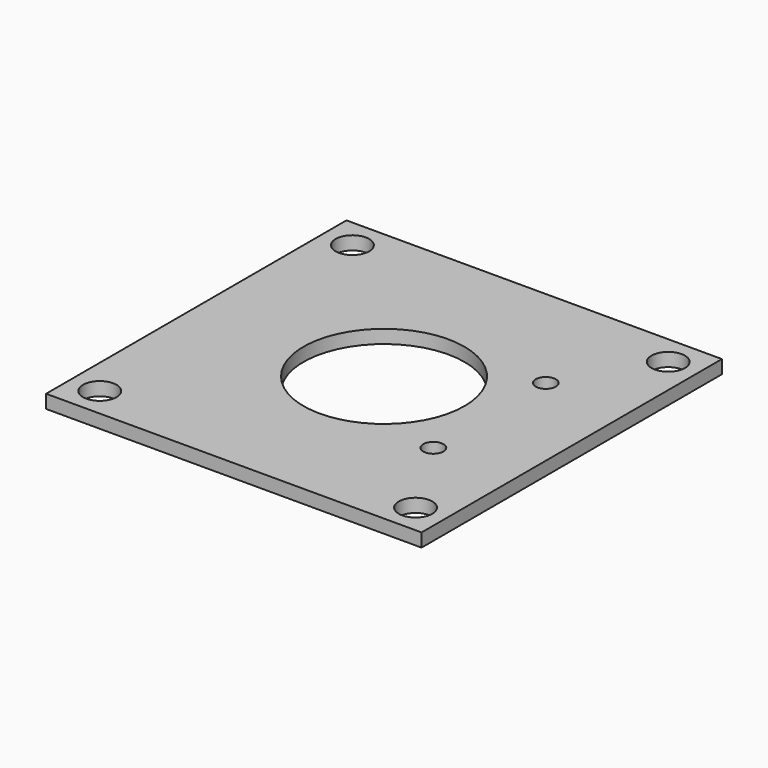
from build123d import *

# Parameters (mm, degrees)
BOX303_W                    = 56
BOX303_H                    = 56
BOX303_DEPTH                = 2
CYLINDER744_R               = 1.5
CYLINDER744_DEPTH           = 20
CYLINDER748_R               = 1.5
CYLINDER748_DEPTH           = 20
COMPOUND443_PLACEMENT_ANGLE = 90
BOX301_W                    = 20
BOX301_H                    = 8
BOX301_DEPTH                = 3
BOX302_W                    = 20
BOX302_H                    = 8
BOX302_DEPTH                = 3
BOX305_W                    = 20
BOX305_H                    = 8
BOX305_DEPTH                = 3
BOX304_W                    = 20
BOX304_H                    = 8
BOX304_DEPTH                = 3
CYLINDER743_R               = 12
CYLINDER743_DEPTH           = 20
CYLINDER736_R               = 5
CYLINDER736_DEPTH           = 4
CYLINDER737_R               = 5
CYLINDER737_DEPTH           = 4
CYLINDER747_R               = 5
CYLINDER747_DEPTH           = 4
CYLINDER749_R               = 5
CYLINDER749_DEPTH           = 4
CYLINDER746_R               = 2.5
CYLINDER746_DEPTH           = 20
CYLINDER750_R               = 2.5
CYLINDER750_DEPTH           = 20
CYLINDER745_R               = 2.5
CYLINDER745_DEPTH           = 20
CYLINDER738_R               = 2.5
CYLINDER738_DEPTH           = 20
CYLINDER751_R               = 3
CYLINDER751_DEPTH           = 5
CYLINDER751_PLACEMENT_ANGLE = 22.5
CYLINDER739_R               = 3
CYLINDER739_DEPTH           = 5
CYLINDER739_PLACEMENT_ANGLE = 67.5
CYLINDER742_R               = 3
CYLINDER742_DEPTH           = 5
CYLINDER742_PLACEMENT_ANGLE = 202.5
CYLINDER741_R               = 3
CYLINDER741_DEPTH           = 5
CYLINDER741_PLACEMENT_ANGLE = 112.5
COMPOUND442_PLACEMENT_ANGLE = 45
CYLINDER753_R               = 1.5
CYLINDER753_DEPTH           = 30
CYLINDER753_PLACEMENT_ANGLE = 22.5
CYLINDER752_R               = 1.5
CYLINDER752_DEPTH           = 30
CYLINDER752_PLACEMENT_ANGLE = 67.5
CYLINDER740_R               = 1.5
CYLINDER740_DEPTH           = 30
CYLINDER740_PLACEMENT_ANGLE = 202.5
CYLINDER754_R               = 1.5
CYLINDER754_DEPTH           = 30
CYLINDER754_PLACEMENT_ANGLE = 112.5
COMPOUND441_PLACEMENT_ANGLE = 45
BOX306_W                    = 68
BOX306_H                    = 64
BOX306_DEPTH                = 8


with BuildPart() as krychle303:
    # Box303 → Box303 (new body)
    with BuildSketch(Plane(origin=(-28, -28, -68), x_dir=(1, 0, 0), z_dir=(0, 0, 1))):
        with Locations((28, 28)):
            Rectangle(BOX303_W, BOX303_H)
    extrude(amount=BOX303_DEPTH)


with BuildPart() as obj1:
    # Cylinder744 → Cylinder744 (new body)
    with BuildSketch(Plane(origin=(15.75, 114, 59.48), x_dir=(-1, 0, 0), z_dir=(0, 1, 0))):
        Circle(CYLINDER744_R)
    extrude(amount=CYLINDER744_DEPTH)


with BuildPart() as compound443:
    # Cylinder748 → Cylinder748 (new body)
    with BuildSketch(Plane(origin=(15.75, 114, 38.52), x_dir=(-1, 0, 0), z_dir=(0, 1, 0))):
        Circle(CYLINDER748_R)
    extrude(amount=CYLINDER748_DEPTH)

    # Compound443: union obj1
    add(obj1.part)


with BuildPart() as compound443_1:
    # Compound443 placement: moved
    add(compound443.part.moved(Location((0, 49, -200))).rotate(Axis((0, 49, -200), (1, 0, 0)), COMPOUND443_PLACEMENT_ANGLE))


with BuildPart() as krychle301:
    # Box301 → Box301 (new body)
    with BuildSketch(Plane(origin=(17.55, -27.55, 31), x_dir=(1, 0, 0), z_dir=(0, 0, 1))):
        with Locations((10, 4)):
            Rectangle(BOX301_W, BOX301_H)
    extrude(amount=BOX301_DEPTH)


with BuildPart() as krychle302:
    # Box302 → Box302 (new body)
    with BuildSketch(Plane(origin=(-37.45, 19.55, 31), x_dir=(1, 0, 0), z_dir=(0, 0, 1))):
        with Locations((10, 4)):
            Rectangle(BOX302_W, BOX302_H)
    extrude(amount=BOX302_DEPTH)


with BuildPart() as krychle305:
    # Box305 → Box305 (new body)
    with BuildSketch(Plane(origin=(-37.45, -27.55, 31), x_dir=(1, 0, 0), z_dir=(0, 0, 1))):
        with Locations((10, 4)):
            Rectangle(BOX305_W, BOX305_H)
    extrude(amount=BOX305_DEPTH)


with BuildPart() as compound444:
    # Box304 → Box304 (new body)
    with BuildSketch(Plane(origin=(17.55, 19.55, 31), x_dir=(1, 0, 0), z_dir=(0, 0, 1))):
        with Locations((10, 4)):
            Rectangle(BOX304_W, BOX304_H)
    extrude(amount=BOX304_DEPTH)

    # Compound444: union Krychle301, Krychle302, Krychle305
    add(krychle301.part)
    add(krychle302.part)
    add(krychle305.part)


with BuildPart() as compound444_1:
    # Compound444 placement: moved
    add(compound444.part.moved(Location((0, 0, -4))))


with BuildPart() as obj2:
    # Cylinder743 → Cylinder743 (new body)
    with BuildSketch(Plane.XY.offset(15)):
        Circle(CYLINDER743_R)
    extrude(amount=CYLINDER743_DEPTH)


with BuildPart() as obj3:
    # Cylinder736 → Cylinder736 (new body)
    with BuildSketch(Plane(origin=(23.55, 23.55, 26), x_dir=(1, 0, 0), z_dir=(0, 0, 1))):
        Circle(CYLINDER736_R)
    extrude(amount=CYLINDER736_DEPTH)


with BuildPart() as obj4:
    # Cylinder737 → Cylinder737 (new body)
    with BuildSketch(Plane(origin=(23.55, -23.55, 26), x_dir=(1, 0, 0), z_dir=(0, 0, 1))):
        Circle(CYLINDER737_R)
    extrude(amount=CYLINDER737_DEPTH)


with BuildPart() as obj5:
    # Cylinder747 → Cylinder747 (new body)
    with BuildSketch(Plane(origin=(-23.55, 23.55, 26), x_dir=(1, 0, 0), z_dir=(0, 0, 1))):
        Circle(CYLINDER747_R)
    extrude(amount=CYLINDER747_DEPTH)


with BuildPart() as compound440:
    # Cylinder749 → Cylinder749 (new body)
    with BuildSketch(Plane(origin=(-23.55, -23.55, 26), x_dir=(1, 0, 0), z_dir=(0, 0, 1))):
        Circle(CYLINDER749_R)
    extrude(amount=CYLINDER749_DEPTH)

    # Compound440: union obj3, obj4, obj5
    add(obj3.part)
    add(obj4.part)
    add(obj5.part)


with BuildPart() as compound440_1:
    # Compound440 placement: moved
    add(compound440.part.moved(Location((0, 0, -50))))


with BuildPart() as obj6:
    # Cylinder746 → Cylinder746 (new body)
    with BuildSketch(Plane(origin=(-23.55, 23.55, 20), x_dir=(1, 0, 0), z_dir=(0, 0, 1))):
        Circle(CYLINDER746_R)
    extrude(amount=CYLINDER746_DEPTH)


with BuildPart() as obj7:
    # Cylinder750 → Cylinder750 (new body)
    with BuildSketch(Plane(origin=(-23.55, -23.55, 20), x_dir=(1, 0, 0), z_dir=(0, 0, 1))):
        Circle(CYLINDER750_R)
    extrude(amount=CYLINDER750_DEPTH)


with BuildPart() as obj8:
    # Cylinder745 → Cylinder745 (new body)
    with BuildSketch(Plane(origin=(23.55, -23.55, 20), x_dir=(1, 0, 0), z_dir=(0, 0, 1))):
        Circle(CYLINDER745_R)
    extrude(amount=CYLINDER745_DEPTH)


with BuildPart() as compound445:
    # Cylinder738 → Cylinder738 (new body)
    with BuildSketch(Plane(origin=(23.55, 23.55, 20), x_dir=(1, 0, 0), z_dir=(0, 0, 1))):
        Circle(CYLINDER738_R)
    extrude(amount=CYLINDER738_DEPTH)

    # Compound445: union obj6, obj7, obj8
    add(obj6.part)
    add(obj7.part)
    add(obj8.part)


with BuildPart() as obj9:
    # Cylinder751 → Cylinder751 (new body)
    with BuildSketch(Plane.XY):
        Circle(CYLINDER751_R)
    extrude(amount=CYLINDER751_DEPTH)


with BuildPart() as obj9_1:
    # Cylinder751 placement: moved
    add(obj9.part.moved(Location((-16, 0, 2))).rotate(Axis((-16, 0, 2), (0, 0, 1)), CYLINDER751_PLACEMENT_ANGLE))


with BuildPart() as obj10:
    # Cylinder739 → Cylinder739 (new body)
    with BuildSketch(Plane.XY):
        Circle(CYLINDER739_R)
    extrude(amount=CYLINDER739_DEPTH)


with BuildPart() as obj10_1:
    # Cylinder739 placement: moved
    add(obj10.part.moved(Location((0, 16, 2))).rotate(Axis((0, 16, 2), (0, 0, -1)), CYLINDER739_PLACEMENT_ANGLE))


with BuildPart() as obj11:
    # Cylinder742 → Cylinder742 (new body)
    with BuildSketch(Plane.XY):
        Circle(CYLINDER742_R)
    extrude(amount=CYLINDER742_DEPTH)


with BuildPart() as obj11_1:
    # Cylinder742 placement: moved
    add(obj11.part.moved(Location((16, 0, 2))).rotate(Axis((16, 0, 2), (0, 0, 1)), CYLINDER742_PLACEMENT_ANGLE))


with BuildPart() as compound442:
    # Cylinder741 → Cylinder741 (new body)
    with BuildSketch(Plane.XY):
        Circle(CYLINDER741_R)
    extrude(amount=CYLINDER741_DEPTH)


with BuildPart() as compound442_1:
    # Cylinder741 placement: moved
    add(compound442.part.moved(Location((0, -16, 2))).rotate(Axis((0, -16, 2), (0, 0, 1)), CYLINDER741_PLACEMENT_ANGLE))

    # Compound442: union obj9, obj10, obj11
    add(obj9_1.part)
    add(obj10_1.part)
    add(obj11_1.part)


with BuildPart() as compound442_2:
    # Compound442 placement: moved
    add(compound442_1.part.moved(Location((0, 0, 18))).rotate(Axis((0, 0, 18), (0, 0, 1)), COMPOUND442_PLACEMENT_ANGLE))


with BuildPart() as obj12:
    # Cylinder753 → Cylinder753 (new body)
    with BuildSketch(Plane.XY):
        Circle(CYLINDER753_R)
    extrude(amount=CYLINDER753_DEPTH)


with BuildPart() as obj12_1:
    # Cylinder753 placement: moved
    add(obj12.part.moved(Location((-16, 0, 2))).rotate(Axis((-16, 0, 2), (0, 0, 1)), CYLINDER753_PLACEMENT_ANGLE))


with BuildPart() as obj13:
    # Cylinder752 → Cylinder752 (new body)
    with BuildSketch(Plane.XY):
        Circle(CYLINDER752_R)
    extrude(amount=CYLINDER752_DEPTH)


with BuildPart() as obj13_1:
    # Cylinder752 placement: moved
    add(obj13.part.moved(Location((0, 16, 2))).rotate(Axis((0, 16, 2), (0, 0, -1)), CYLINDER752_PLACEMENT_ANGLE))


with BuildPart() as obj14:
    # Cylinder740 → Cylinder740 (new body)
    with BuildSketch(Plane.XY):
        Circle(CYLINDER740_R)
    extrude(amount=CYLINDER740_DEPTH)


with BuildPart() as obj14_1:
    # Cylinder740 placement: moved
    add(obj14.part.moved(Location((16, 0, 2))).rotate(Axis((16, 0, 2), (0, 0, 1)), CYLINDER740_PLACEMENT_ANGLE))


with BuildPart() as compound441:
    # Cylinder754 → Cylinder754 (new body)
    with BuildSketch(Plane.XY):
        Circle(CYLINDER754_R)
    extrude(amount=CYLINDER754_DEPTH)


with BuildPart() as compound441_1:
    # Cylinder754 placement: moved
    add(compound441.part.moved(Location((0, -16, 2))).rotate(Axis((0, -16, 2), (0, 0, 1)), CYLINDER754_PLACEMENT_ANGLE))

    # Compound441: union obj12, obj13, obj14
    add(obj12_1.part)
    add(obj13_1.part)
    add(obj14_1.part)


with BuildPart() as compound441_2:
    # Compound441 placement: moved
    add(compound441_1.part.moved(Location((0, 0, 50))).rotate(Axis((0, 0, 50), (0, 0, 1)), COMPOUND441_PLACEMENT_ANGLE))


with BuildPart() as common004:
    # Box306 → Box306 (new body)
    with BuildSketch(Plane(origin=(-34, -32, 26), x_dir=(1, 0, 0), z_dir=(0, 0, 1))):
        with Locations((34, 32)):
            Rectangle(BOX306_W, BOX306_H)
    extrude(amount=BOX306_DEPTH)

    # Cut299: cut Compound441
    add(compound441_2.part, mode=Mode.SUBTRACT)

    # Cut295: cut Compound442
    add(compound442_2.part, mode=Mode.SUBTRACT)

    # Cut297: cut Compound445
    add(compound445.part, mode=Mode.SUBTRACT)

    # Cut301: cut Compound440
    add(compound440_1.part, mode=Mode.SUBTRACT)

    # Cut300: cut obj2
    add(obj2.part, mode=Mode.SUBTRACT)

    # Cut296: cut Compound444
    add(compound444_1.part, mode=Mode.SUBTRACT)


with BuildPart() as common004_1:
    # Cut296 placement: moved
    add(common004.part.moved(Location((0, 0, -100))))

    # Cut298: cut Compound443
    add(compound443_1.part, mode=Mode.SUBTRACT)

    # Common004: intersect Krychle303
    add(krychle303.part, mode=Mode.INTERSECT)


solid = common004_1.part
